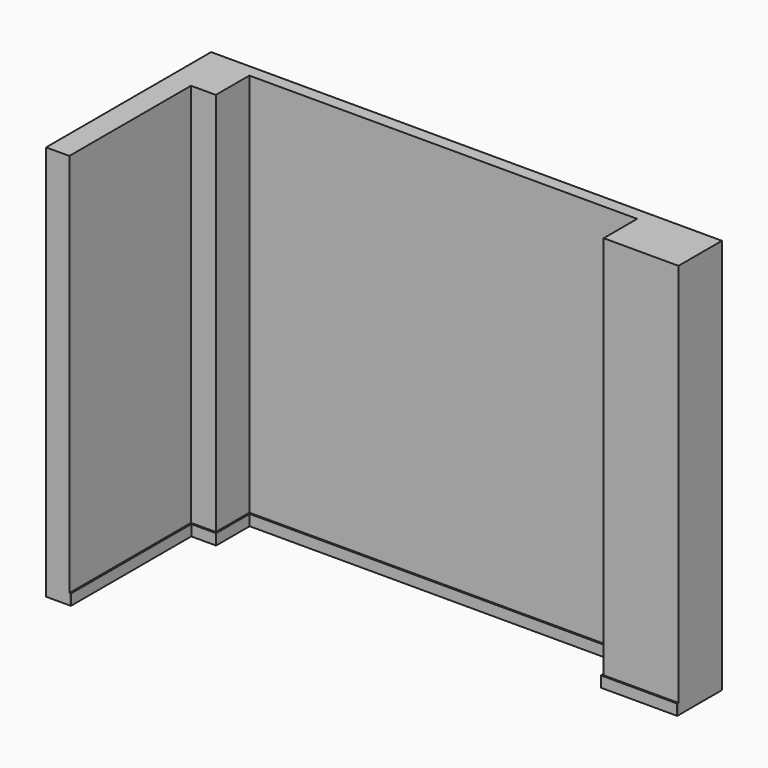
from build123d import *

# Parameters (mm, degrees)
F1_DEPTH = 2550
F2_DEPTH = 70


with BuildPart() as f1:
    # F0 (on Top) → F1 (new body)
    with BuildSketch(Plane.XY):
        Polygon((0, -270), (0, 0), (2500, 0), (2500, -270), (2982.169731, -270), (2982.169731, 80), (-310, 80), (-310, -1250), (-160, -1250), (-160, -270), align=None)
    extrude(amount=F1_DEPTH)


with BuildPart() as f2:
    # F0 (on Top) → F2 (new body)
    with BuildSketch(Plane.XY):
        Polygon((2500, 0), (0, 0), (0, -270), (-160, -270), (-160, -1250), (-150, -1250), (-150, -280), (10, -280), (10, -10), (2490, -10), (2490, -280), (2982.169731, -280), (2982.169731, -270), (2500, -270), align=None)
    extrude(amount=F2_DEPTH)


solid = Compound([f1.part, f2.part])
